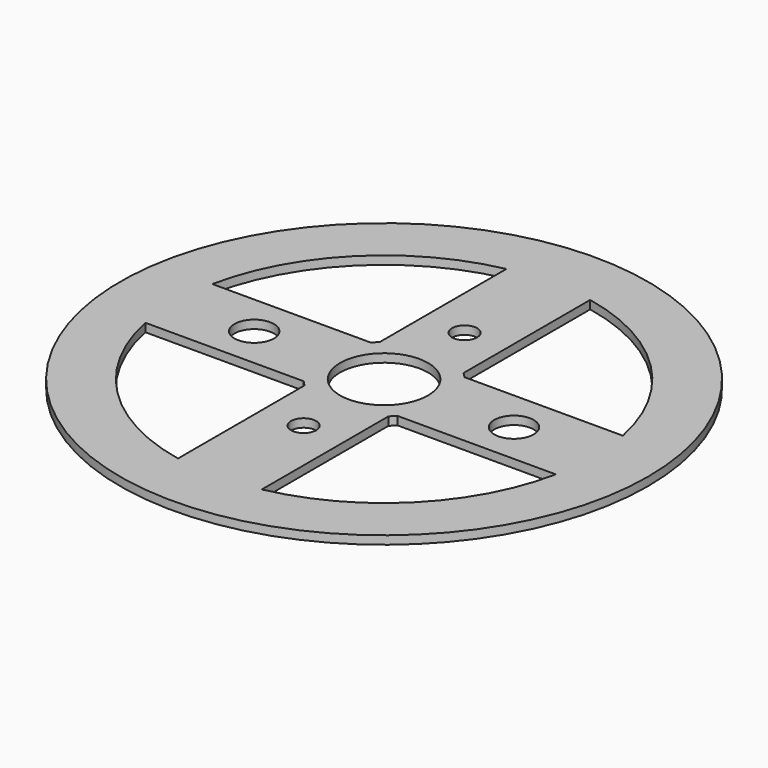
from build123d import *

# Parameters (mm, degrees)
F0_R     = 31.5
F1_DEPTH = 1
F2_R     = 5.25
F3_DEPTH = 1
F4_R     = 1.5
F4_R_2   = 2.35
F5_DEPTH = 1


with BuildPart() as f1:
    # F0 (on Top) → F1 (new body)
    with BuildSketch(Plane.XY):
        Circle(F0_R)
    extrude(amount=F1_DEPTH)

    # F2 (on face) → F3 (cut, through all)
    with BuildSketch(Plane.XY.offset(1)):
        Circle(F2_R)
    extrude(amount=-F3_DEPTH, mode=Mode.SUBTRACT)

    # F4 (on face) → F5 (cut, through all)
    with BuildSketch(Plane.XY.offset(1)):
        with BuildLine():
            Line((-5, 5.59017), (-5, 24.494897))
            ThreePointArc((-5, 24.494897), (-17.67767, 17.67767), (-24.494897, 5))
            Line((-24.494897, 5), (-5.59017, 5))
            ThreePointArc((-5.59017, 5), (-5.303301, 5.303301), (-5, 5.59017))
        make_face()
        with BuildLine():
            Line((5.59017, 5), (24.494897, 5))
            ThreePointArc((24.494897, 5), (17.67767, 17.67767), (5, 24.494897))
            Line((5, 24.494897), (5, 5.59017))
            ThreePointArc((5, 5.59017), (5.303301, 5.303301), (5.59017, 5))
        make_face()
        with BuildLine():
            ThreePointArc((5, -24.494897), (17.67767, -17.67767), (24.494897, -5))
            Line((24.494897, -5), (5.59017, -5))
            ThreePointArc((5.59017, -5), (5.303301, -5.303301), (5, -5.59017))
            Line((5, -5.59017), (5, -24.494897))
        make_face()
        with BuildLine():
            ThreePointArc((-24.494897, -5), (-17.67767, -17.67767), (-5, -24.494897))
            Line((-5, -24.494897), (-5, -5.59017))
            ThreePointArc((-5, -5.59017), (-5.303301, -5.303301), (-5.59017, -5))
            Line((-5.59017, -5), (-24.494897, -5))
        make_face()
        with Locations((0, -12)):
            Circle(F4_R)
        with Locations((15.5, 0)):
            Circle(F4_R_2)
        with Locations((0, 12)):
            Circle(F4_R)
        with Locations((-15.5, 0)):
            Circle(F4_R_2)
    extrude(amount=-F5_DEPTH, mode=Mode.SUBTRACT)


solid = f1.part
